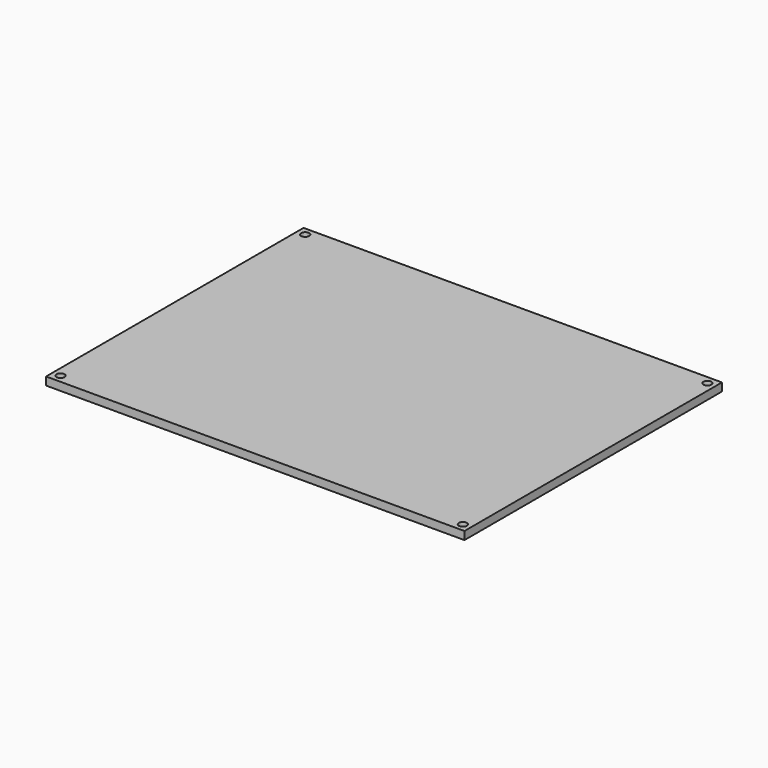
from build123d import *

# Parameters (mm, degrees)
SKETCH_W     = 260
SKETCH_H     = 200
PAD_DEPTH    = 5
SKETCH001_R  = 2.5
POCKET_DEPTH = 5.001


with BuildPart() as part:
    # Sketch → Pad (new body)
    with BuildSketch(Plane.XY):
        with Locations((130, 100)):
            Rectangle(SKETCH_W, SKETCH_H)
    extrude(amount=PAD_DEPTH)

    # Sketch001 (on Face6 of Pad) → Pocket (cut, through all)
    with BuildSketch(Plane.XY.offset(5)):
        with Locations((5, 5)):
            Circle(SKETCH001_R)
        with Locations((5, 195)):
            Circle(SKETCH001_R)
        with Locations((255, 195)):
            Circle(SKETCH001_R)
        with Locations((255, 5)):
            Circle(SKETCH001_R)
    extrude(amount=-POCKET_DEPTH, mode=Mode.SUBTRACT)


solid = part.part
